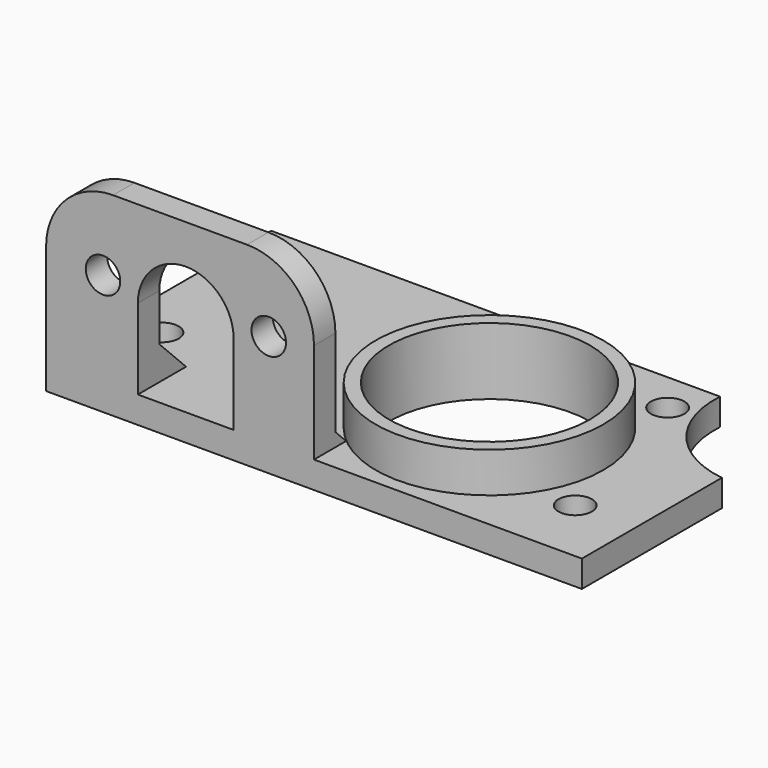
from build123d import *

# Parameters (mm, degrees)
BOX_W           = 80
BOX_H           = 42
BOX_DEPTH       = 4
SKETCH001_R     = 15
POCKET001_DEPTH = 4.001
SKETCH003_R     = 17
PAD_DEPTH       = 6
SKETCH004_R     = 15
POCKET003_DEPTH = 10.001
SKETCH005_R     = 2.5
POCKET004_DEPTH = 4.001
BOX001_W        = 40
BOX001_H        = 4
BOX001_DEPTH    = 25
SKETCH002_R     = 2.5781
POCKET002_DEPTH = 4.001
FILLET_R        = 10
FILLET001_R     = 10
CHAMFER_SIZE    = 5
CHAMFER001_SIZE = 2


with BuildPart() as pocket004:
    # Box → Box (new body)
    with BuildSketch(Plane(origin=(-768, 594, -534), x_dir=(1, 0, 0), z_dir=(0, 0, 1))):
        with Locations((40, 21)):
            Rectangle(BOX_W, BOX_H)
    extrude(amount=BOX_DEPTH)

    # Sketch001 → Pocket001 (cut, through all)
    with BuildSketch(Plane(origin=(-768, 594, -530), x_dir=(1, 0, 0), z_dir=(0, 0, 1))):
        with Locations((82, 41)):
            Circle(SKETCH001_R)
    extrude(amount=-POCKET001_DEPTH, mode=Mode.SUBTRACT)

    # Sketch003 → Pad (new body)
    with BuildSketch(Plane(origin=(-768, 594, -530), x_dir=(1, 0, 0), z_dir=(0, 0, 1))):
        with Locations((51, 19)):
            Circle(SKETCH003_R)
    extrude(amount=PAD_DEPTH)

    # Sketch004 → Pocket003 (cut, through all)
    with BuildSketch(Plane(origin=(-768, 594, -524), x_dir=(1, 0, 0), z_dir=(0, 0, 1))):
        with Locations((51, 19)):
            Circle(SKETCH004_R)
    extrude(amount=-POCKET003_DEPTH, mode=Mode.SUBTRACT)

    # Sketch005 → Pocket004 (cut, through all)
    with BuildSketch(Plane(origin=(-768, 594, -530), x_dir=(1, 0, 0), z_dir=(0, 0, 1))):
        with Locations((6.1, 34)):
            Circle(SKETCH005_R)
        with Locations((6.1, 14)):
            Circle(SKETCH005_R)
        with Locations((35.9, 34)):
            Circle(SKETCH005_R)
        with Locations((64, 36)):
            Circle(SKETCH005_R)
        with Locations((71, 10)):
            Circle(SKETCH005_R)
    extrude(amount=-POCKET004_DEPTH, mode=Mode.SUBTRACT)


with BuildPart() as chamfer001:
    # Box001 → Box001 (new body)
    with BuildSketch(Plane(origin=(-768, 594, -530), x_dir=(1, 0, 0), z_dir=(0, 0, 1))):
        with Locations((20, 2)):
            Rectangle(BOX001_W, BOX001_H)
    extrude(amount=BOX001_DEPTH)

    # Sketch002 → Pocket002 (cut, through all)
    with BuildSketch(Plane(origin=(-768, 598, -530), x_dir=(-1, 0, 0), z_dir=(0, 1, 0))):
        with Locations((-33.247, 14)):
            Circle(SKETCH002_R)
        with Locations((-8.5, 14)):
            Circle(SKETCH002_R)
        with BuildLine():
            ThreePointArc((-13.7, 12), (-20.85, 19.15), (-28, 12))
            Line((-28, 12), (-28, 0))
            Line((-28, 0), (-13.7, 0))
            Line((-13.7, 12), (-13.7, 0))
        make_face()
    extrude(amount=-POCKET002_DEPTH, mode=Mode.SUBTRACT)

    # Fillet
    fillet_edges = [chamfer001.edges().sort_by_distance(p)[0] for p in [
        (-728, 596, -505),
    ]]
    fillet(fillet_edges, radius=FILLET_R)

    # Fillet001
    fillet001_edges = [chamfer001.edges().sort_by_distance(p)[0] for p in [
        (-768, 596, -505),
    ]]
    fillet(fillet001_edges, radius=FILLET001_R)

    # Fusion: union Pocket004
    add(pocket004.part)

    # Chamfer
    chamfer_edges = [chamfer001.edges().sort_by_distance(p)[0] for p in [
        (-761.15, 598, -530),
    ]]
    chamfer(chamfer_edges, length=CHAMFER_SIZE)

    # Chamfer001
    chamfer001_edges = [chamfer001.edges().sort_by_distance(p)[0] for p in [
        (-734, 598, -530),
    ]]
    chamfer(chamfer001_edges, length=CHAMFER001_SIZE)


solid = chamfer001.part
